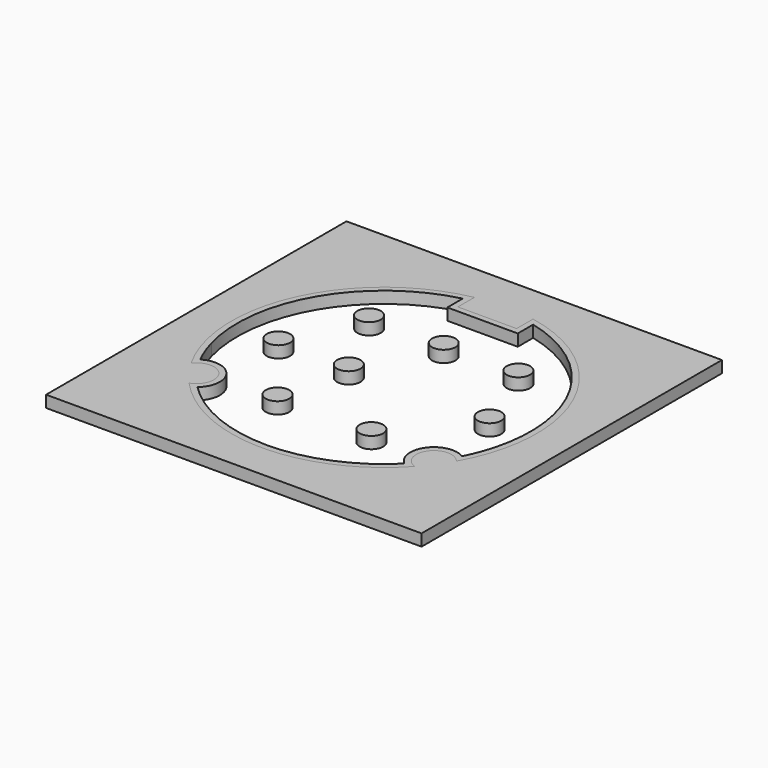
from build123d import *

# Parameters (mm, degrees)
F0_R     = 1
F1_DEPTH = 1
F0_W     = 32
F0_H     = 32
F2_DEPTH = 1


with BuildPart() as f1:
    # F0 (on Top) → F1 (new body)
    with BuildSketch(Plane.XY):
        with BuildLine():
            ThreePointArc((-1.497502, -12.913462), (0, -13), (1.497502, -12.913462))
            ThreePointArc((1.497502, -12.913462), (5.931762, -11.567809), (9.612322, -8.752329))
            ThreePointArc((9.612322, -8.752329), (8.903788, -6.459301), (11.303484, -6.421156))
            ThreePointArc((11.303484, -6.421156), (11.814729, 5.423299), (2.5, 12.757351))
            Line((2.5, 12.757351), (2.5, 11))
            Line((2.5, 11), (-2.5, 11))
            Line((-2.5, 11), (-2.5, 12.757351))
            ThreePointArc((-2.5, 12.757351), (-11.814729, 5.423299), (-11.303484, -6.421156))
            ThreePointArc((-11.303484, -6.421156), (-8.903788, -6.459301), (-9.612322, -8.752329))
            ThreePointArc((-9.612322, -8.752329), (-5.931762, -11.567809), (-1.497502, -12.913462))
        make_face()
        with BuildLine():
            ThreePointArc((-11.159085, -5.632479), (-11.662402, -4.498709), (-12.050867, -3.320634))
            ThreePointArc((-12.050867, -3.320634), (-10.786505, 6.316749), (-3, 12.134661))
            Line((-3, 12.134661), (-3, 10.5))
            Line((-3, 10.5), (3, 10.5))
            Line((3, 10.5), (3, 12.134661))
            ThreePointArc((3, 12.134661), (10.786505, 6.316749), (12.050867, -3.320634))
            ThreePointArc((12.050867, -3.320634), (11.662402, -4.498709), (11.159085, -5.632479))
            ThreePointArc((11.159085, -5.632479), (8.49907, -6.165696), (8.817777, -8.859843))
            ThreePointArc((8.817777, -8.859843), (0, -12.5), (-8.817777, -8.859843))
            ThreePointArc((-8.817777, -8.859843), (-8.49907, -6.165696), (-11.159085, -5.632479))
        make_face(mode=Mode.SUBTRACT)
        with Locations((-8.999804, 0)):
            Circle(F0_R)
        with Locations((-6.363766, 6.363847)):
            Circle(F0_R)
        with Locations((0, 6.363847)):
            Circle(F0_R)
        with Locations((6.364157, 6.363847)):
            Circle(F0_R)
        with Locations((9.000196, 0)):
            Circle(F0_R)
        with Locations((-2.999804, -0.000115)):
            Circle(F0_R)
        with Locations((-3.999804, -6.340115)):
            Circle(F0_R)
        with Locations((4.000196, -6.340115)):
            Circle(F0_R)
    extrude(amount=F1_DEPTH)


with BuildPart() as f2:
    # F0 (on Top) → F2 (new body)
    with BuildSketch(Plane.XY):
        Rectangle(F0_W, F0_H)
        with BuildLine():
            ThreePointArc((9.612322, -8.752329), (5.931762, -11.567809), (1.497502, -12.913462))
            ThreePointArc((1.497502, -12.913462), (0, -13), (-1.497502, -12.913462))
            ThreePointArc((-1.497502, -12.913462), (-5.931762, -11.567809), (-9.612322, -8.752329))
            ThreePointArc((-9.612322, -8.752329), (-8.903788, -6.459301), (-11.303484, -6.421156))
            ThreePointArc((-11.303484, -6.421156), (-11.814729, 5.423299), (-2.5, 12.757351))
            Line((-2.5, 12.757351), (-2.5, 11))
            Line((-2.5, 11), (2.5, 11))
            Line((2.5, 11), (2.5, 12.757351))
            ThreePointArc((2.5, 12.757351), (11.814729, 5.423299), (11.303484, -6.421156))
            ThreePointArc((11.303484, -6.421156), (8.903788, -6.459301), (9.612322, -8.752329))
        make_face(mode=Mode.SUBTRACT)
    extrude(amount=F2_DEPTH)


solid = Compound([f1.part, f2.part])
